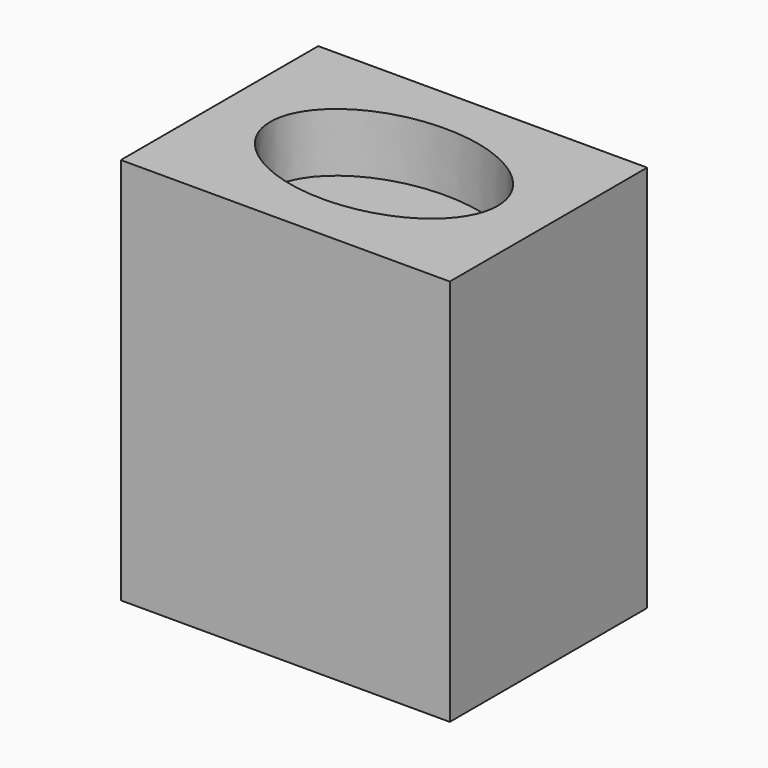
from build123d import *

# Parameters (mm, degrees)
F0_W     = 711.2
F0_H     = 533.4
F1_DEPTH = 838.2
F2_DEPTH = 711.2


with BuildPart() as f1:
    # F0 (on Top) → F1 (new body)
    with BuildSketch(Plane.XY):
        with Locations((355.6, 266.7)):
            Rectangle(F0_W, F0_H)
        with BuildLine():
            add(Edge.make_bspline(
                [(601.416213, 266.7), (601.416213, 552.973976), (232.691893, 409.836988), (-136.032426, 266.7), (232.691893, 123.563012), (601.416213, -19.573976), (601.416213, 266.7)],
                knots=[0, 0, 0, 2.094395, 2.094395, 4.18879, 4.18879, 6.283185, 6.283185, 6.283185], degree=2, weights=[1, 0.5, 1, 0.5, 1, 0.5, 1]))
        make_face(mode=Mode.SUBTRACT)
    extrude(amount=F1_DEPTH)

    # F0 (on Top) → F2 (join)
    with BuildSketch(Plane.XY):
        with BuildLine():
            add(Edge.make_bspline(
                [(601.416213, 266.7), (601.416213, 552.973976), (232.691893, 409.836988), (-136.032426, 266.7), (232.691893, 123.563012), (601.416213, -19.573976), (601.416213, 266.7)],
                knots=[0, 0, 0, 2.094395, 2.094395, 4.18879, 4.18879, 6.283185, 6.283185, 6.283185], degree=2, weights=[1, 0.5, 1, 0.5, 1, 0.5, 1]))
        make_face()
    extrude(amount=F2_DEPTH)


solid = f1.part
